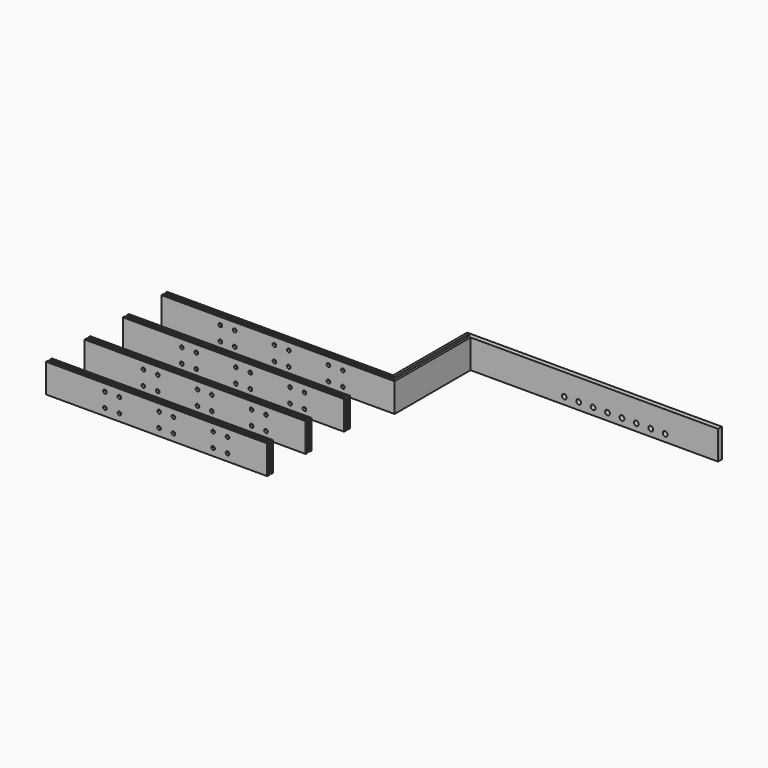
from build123d import *

# Parameters (mm, degrees)
F0_W     = 6.35
F0_H     = 76.2
F1_DEPTH = 584.2
F3_DEPTH = 76.2
F5_DEPTH = 76.2
F6_R     = 6.35
F7_DEPTH = 644.526
F8_R     = 4.7625
F9_DEPTH = 400.051


with BuildPart() as f1:
    # F0 (on Right) → F1 (new body)
    with BuildSketch(Plane.YZ):
        with Locations((3.175, 38.1)):
            Rectangle(F0_W, F0_H)
        with Locations((15.875, 38.1)):
            Rectangle(F0_W, F0_H)
        with Locations((130.175, 38.1)):
            Rectangle(F0_W, F0_H)
        with Locations((142.875, 38.1)):
            Rectangle(F0_W, F0_H)
        with Locations((257.175, 38.1)):
            Rectangle(F0_W, F0_H)
        with Locations((269.875, 38.1)):
            Rectangle(F0_W, F0_H)
        with Locations((384.175, 38.1)):
            Rectangle(F0_W, F0_H)
        with Locations((396.875, 38.1)):
            Rectangle(F0_W, F0_H)
    extrude(amount=F1_DEPTH)

    # F2 (on face) → F3 (join)
    with BuildSketch(Plane.XY.offset(76.2)):
        Polygon((584.2, 400.05), (584.2, 393.7), (603.25, 393.7), (603.25, 638.175), (1270, 638.175), (1270, 644.525), (596.9, 644.525), (596.9, 400.05), align=None)
    extrude(amount=-F3_DEPTH)

    # F4 (on face) → F5 (join)
    with BuildSketch(Plane.XY.offset(76.2)):
        Polygon((609.6, 387.35), (584.2, 387.35), (584.2, 381), (615.95, 381), (615.95, 631.825), (1270, 631.825), (1270, 638.175), (609.6, 638.175), align=None)
    extrude(amount=-F5_DEPTH)

    # F6 (on face) → F7 (cut, through all)
    with BuildSketch(Plane(origin=(0, 644.525, 0), x_dir=(-1, 0, 0), z_dir=(0, 1, 0))):
        with Locations((-1130.3, 19.05)):
            Circle(F6_R)
        with Locations((-1092.2, 19.05)):
            Circle(F6_R)
        with Locations((-1054.1, 19.05)):
            Circle(F6_R)
        with Locations((-1016, 19.05)):
            Circle(F6_R)
        with Locations((-977.9, 19.05)):
            Circle(F6_R)
        with Locations((-939.8, 19.05)):
            Circle(F6_R)
        with Locations((-901.7, 19.05)):
            Circle(F6_R)
        with Locations((-863.6, 19.05)):
            Circle(F6_R)
    extrude(amount=-F7_DEPTH, mode=Mode.SUBTRACT)

    # F8 (on face) → F9 (cut, through all)
    with BuildSketch(Plane(origin=(0, 400.05, 0), x_dir=(-1, 0, 0), z_dir=(0, 1, 0))):
        with Locations((-298.45, 57.15)):
            Circle(F8_R)
        with Locations((-298.45, 19.05)):
            Circle(F8_R)
        with Locations((-336.55, 19.05)):
            Circle(F8_R)
        with Locations((-336.55, 57.15)):
            Circle(F8_R)
        with Locations((-155.575, 57.15)):
            Circle(F8_R)
        with Locations((-155.575, 19.05)):
            Circle(F8_R)
        with Locations((-193.675, 19.05)):
            Circle(F8_R)
        with Locations((-193.675, 57.15)):
            Circle(F8_R)
        with Locations((-441.325, 57.15)):
            Circle(F8_R)
        with Locations((-441.325, 19.05)):
            Circle(F8_R)
        with Locations((-479.425, 19.05)):
            Circle(F8_R)
        with Locations((-479.425, 57.15)):
            Circle(F8_R)
    extrude(amount=-F9_DEPTH, mode=Mode.SUBTRACT)


solid = f1.part
